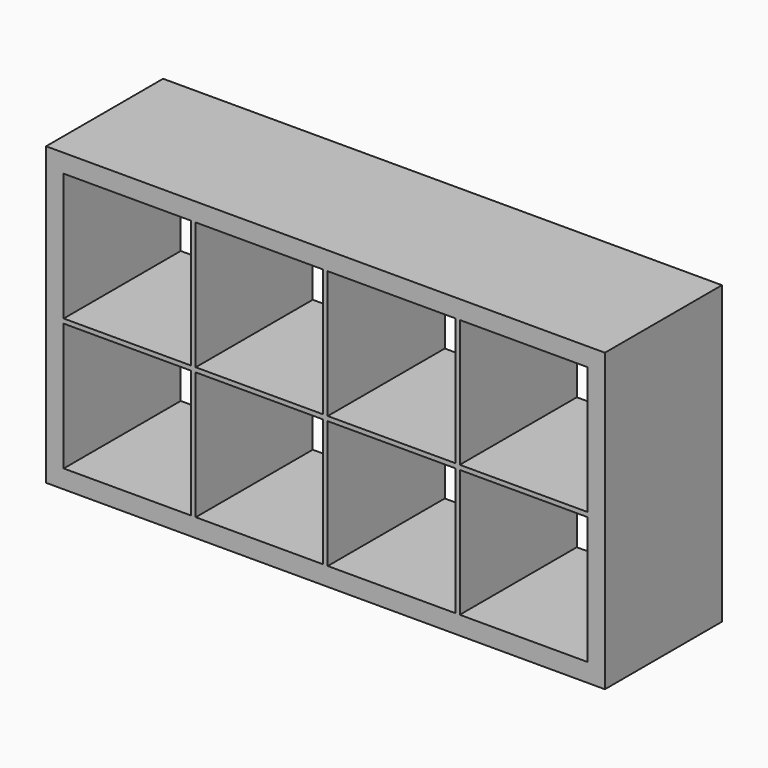
from build123d import *

# Parameters (mm, degrees)
F0_W     = 1490
F0_H     = 390
F1_DEPTH = 49
F2_W     = 47
F2_H     = 390
F2_W_2   = 12
F3_DEPTH = 692
F4_W     = 1490
F4_H     = 390
F5_DEPTH = 49
F6_W     = 390
F6_H     = 12
F7_DEPTH = 1410


with BuildPart() as f1:
    # F0 (on Top) → F1 (new body)
    with BuildSketch(Plane.XY):
        Rectangle(F0_W, F0_H)
    extrude(amount=F1_DEPTH)

    # F2 (on face) → F3 (join)
    with BuildSketch(Plane.XY.offset(49)):
        with Locations((-721.5, 0)):
            Rectangle(F2_W, F2_H)
        with Locations((721.5, 0)):
            Rectangle(F2_W, F2_H)
        with Locations((352, 0)):
            Rectangle(F2_W_2, F2_H)
        Rectangle(F2_W_2, F2_H)
        with Locations((-352, 0)):
            Rectangle(F2_W_2, F2_H)
    extrude(amount=F3_DEPTH)

    # F4 (on face) → F5 (join)
    with BuildSketch(Plane.XY.offset(741)):
        Rectangle(F4_W, F4_H)
    extrude(amount=F5_DEPTH)

    # F6 (on face) → F7 (join)
    with BuildSketch(Plane(origin=(698, 0, 0), x_dir=(0, -1, 0), z_dir=(-1, 0, 0))):
        with Locations((0, 395)):
            Rectangle(F6_W, F6_H)
    extrude(amount=F7_DEPTH)


solid = f1.part
